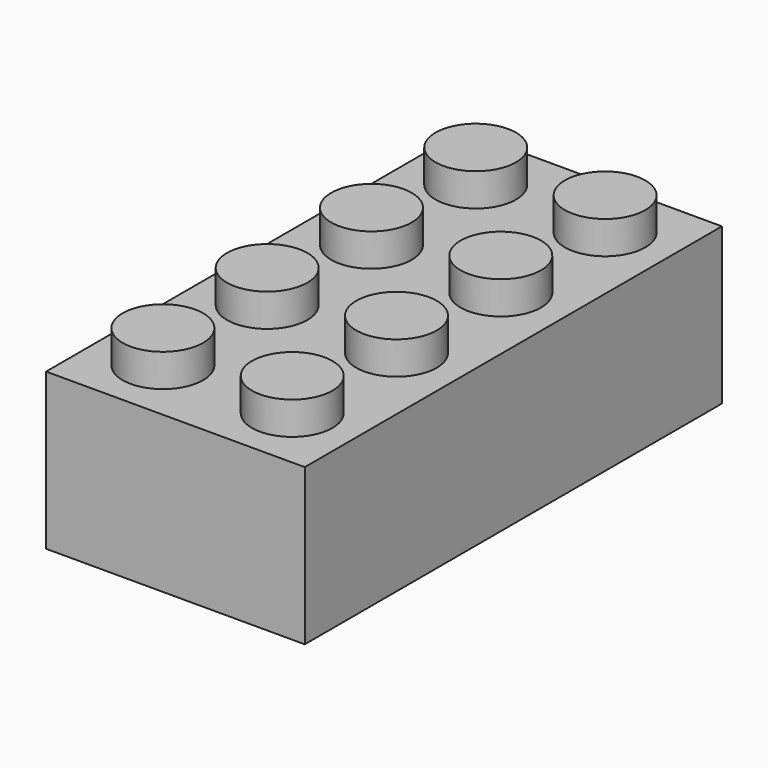
from build123d import *

# Parameters (mm, degrees)
F0_W     = 15.75
F0_H     = 9.5
F1_DEPTH = 15.875
F2_R     = 2.45
F3_DEPTH = 2
F4_W     = 14.05
F4_H     = 30.05
F5_DEPTH = 8.5


with BuildPart() as f1:
    # F0 (on Front) → F1 (new body, symmetric)
    with BuildSketch(Plane.XZ):
        Rectangle(F0_W, F0_H)
    extrude(amount=F1_DEPTH, both=True)

    # F2 (on face) → F3 (join)
    with BuildSketch(Plane.XY.offset(4.75)):
        with Locations((-3.9375, 11.90625)):
            Circle(F2_R)
        with Locations((3.9375, 11.90625)):
            Circle(F2_R)
        with Locations((3.9375, 3.96875)):
            Circle(F2_R)
        with Locations((-3.9375, 3.96875)):
            Circle(F2_R)
        with Locations((-3.9375, -3.96875)):
            Circle(F2_R)
        with Locations((3.9375, -3.96875)):
            Circle(F2_R)
        with Locations((-3.9375, -11.90625)):
            Circle(F2_R)
        with Locations((3.9375, -11.90625)):
            Circle(F2_R)
    extrude(amount=F3_DEPTH)

    # F4 (on face) → F5 (cut)
    with BuildSketch(Plane(origin=(0, 0, -4.75), x_dir=(1, 0, 0), z_dir=(0, 0, -1))):
        Rectangle(F4_W, F4_H)
    extrude(amount=-F5_DEPTH, mode=Mode.SUBTRACT)


solid = f1.part
